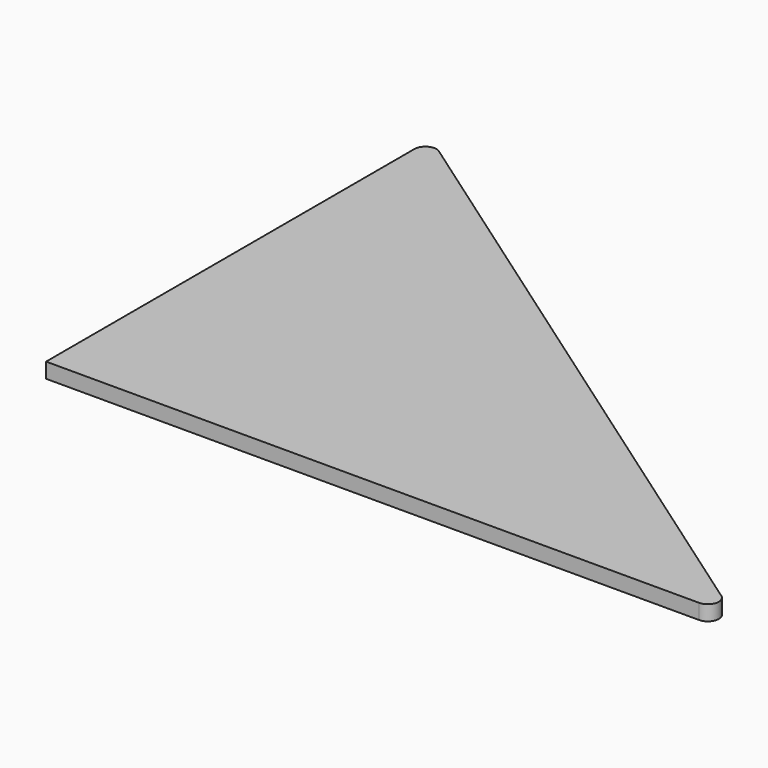
from build123d import *

# Parameters (mm, degrees)
F1_DEPTH = 2.2
F2_R     = 1.6


with BuildPart() as f1:
    # F0 (on Top) → F1 (new body)
    with BuildSketch(Plane.XY):
        Polygon((0, 70), (0, 0), (100, 0), align=None)
    extrude(amount=F1_DEPTH)

    # F2
    f2_edges = [f1.edges().sort_by_distance(p)[0] for p in [
        (100, 0, 1.1),
        (0, 70, 1.1),
    ]]
    fillet(f2_edges, radius=F2_R)


solid = f1.part
